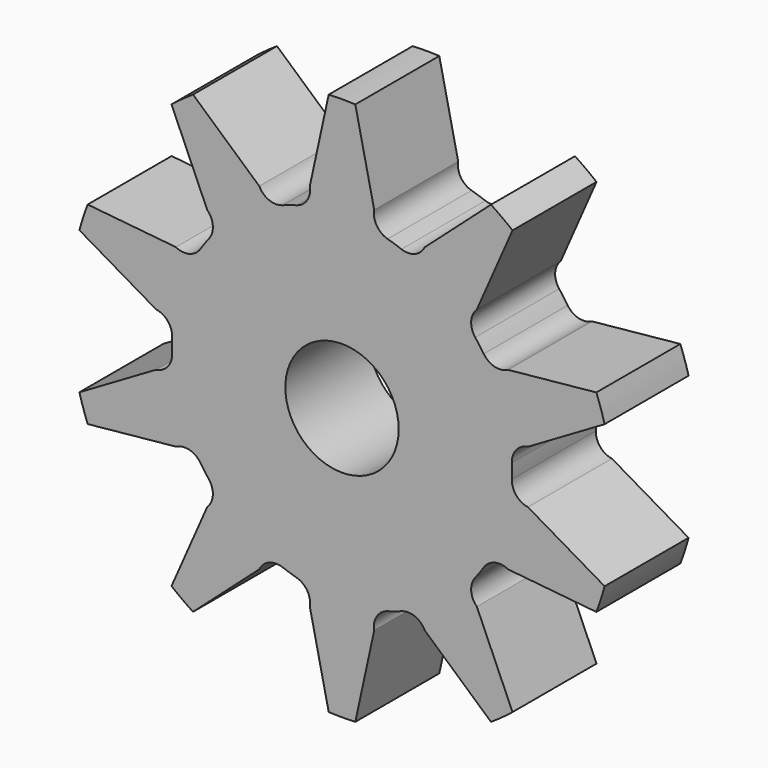
from build123d import *

# Parameters (mm, degrees)
F0_R     = 1.7145
F1_DEPTH = 3.175


with BuildPart() as f1:
    # F0 (on Front) → F1 (new body)
    with BuildSketch(Plane.XZ):
        with BuildLine():
            Line((0.97351, 5.597247), (0.402457, 8.219753))
            ThreePointArc((0.402457, 8.219753), (0, 8.2296), (-0.402457, 8.219753))
            Line((-0.402457, 8.219753), (-0.97351, 5.597247))
            ThreePointArc((-0.97351, 5.597247), (-1.052103, 5.198153), (-1.378445, 4.955349))
            ThreePointArc((-1.378445, 4.955349), (-1.589429, 4.891759), (-1.797496, 4.819191))
            ThreePointArc((-1.797496, 4.819191), (-2.204228, 4.823805), (-2.502393, 5.100483))
            Line((-2.502393, 5.100483), (-4.505855, 6.886478))
            ThreePointArc((-4.505855, 6.886478), (-4.837238, 6.657886), (-5.157044, 6.413362))
            Line((-5.157044, 6.413362), (-4.077565, 3.956053))
            ThreePointArc((-4.077565, 3.956053), (-3.906567, 3.586983), (-4.027866, 3.198732))
            ThreePointArc((-4.027866, 3.198732), (-4.161179, 3.023273), (-4.286854, 2.842266))
            ThreePointArc((-4.286854, 2.842266), (-4.618619, 2.606927), (-5.022467, 2.655508))
            Line((-5.022467, 2.655508), (-7.693084, 2.922803))
            ThreePointArc((-7.693084, 2.922803), (-7.826815, 2.543086), (-7.941816, 2.157284))
            Line((-7.941816, 2.157284), (-5.624129, 0.803781))
            ThreePointArc((-5.624129, 0.803781), (-5.268855, 0.605708), (-5.13878, 0.220308))
            ThreePointArc((-5.13878, 0.220308), (-5.1435, 0), (-5.13878, -0.220308))
            ThreePointArc((-5.13878, -0.220308), (-5.268855, -0.605708), (-5.624129, -0.803781))
            Line((-5.624129, -0.803781), (-7.941816, -2.157284))
            ThreePointArc((-7.941816, -2.157284), (-7.826815, -2.543086), (-7.693084, -2.922803))
            Line((-7.693084, -2.922803), (-5.022467, -2.655508))
            ThreePointArc((-5.022467, -2.655508), (-4.618619, -2.606927), (-4.286854, -2.842266))
            ThreePointArc((-4.286854, -2.842266), (-4.161179, -3.023273), (-4.027866, -3.198732))
            ThreePointArc((-4.027866, -3.198732), (-3.906567, -3.586983), (-4.077565, -3.956053))
            Line((-4.077565, -3.956053), (-5.157044, -6.413362))
            ThreePointArc((-5.157044, -6.413362), (-4.837238, -6.657886), (-4.505855, -6.886478))
            Line((-4.505855, -6.886478), (-2.502393, -5.100483))
            ThreePointArc((-2.502393, -5.100483), (-2.204228, -4.823805), (-1.797496, -4.819191))
            ThreePointArc((-1.797496, -4.819191), (-1.589429, -4.891759), (-1.378445, -4.955349))
            ThreePointArc((-1.378445, -4.955349), (-1.052103, -5.198153), (-0.97351, -5.597247))
            Line((-0.97351, -5.597247), (-0.402457, -8.219753))
            ThreePointArc((-0.402457, -8.219753), (0, -8.2296), (0.402457, -8.219753))
            Line((0.402457, -8.219753), (0.97351, -5.597247))
            ThreePointArc((0.97351, -5.597247), (1.052103, -5.198153), (1.378445, -4.955349))
            ThreePointArc((1.378445, -4.955349), (1.589429, -4.891759), (1.797496, -4.819191))
            ThreePointArc((1.797496, -4.819191), (2.204228, -4.823805), (2.502393, -5.100483))
            Line((2.502393, -5.100483), (4.505855, -6.886478))
            ThreePointArc((4.505855, -6.886478), (4.837238, -6.657886), (5.157044, -6.413362))
            Line((5.157044, -6.413362), (4.077565, -3.956053))
            ThreePointArc((4.077565, -3.956053), (3.906567, -3.586983), (4.027866, -3.198732))
            ThreePointArc((4.027866, -3.198732), (4.161179, -3.023273), (4.286854, -2.842266))
            ThreePointArc((4.286854, -2.842266), (4.618619, -2.606927), (5.022467, -2.655508))
            Line((5.022467, -2.655508), (7.693084, -2.922803))
            ThreePointArc((7.693084, -2.922803), (7.826815, -2.543086), (7.941816, -2.157284))
            Line((7.941816, -2.157284), (5.624129, -0.803781))
            ThreePointArc((5.624129, -0.803781), (5.268855, -0.605708), (5.13878, -0.220308))
            ThreePointArc((5.13878, -0.220308), (5.1435, 0), (5.13878, 0.220308))
            ThreePointArc((5.13878, 0.220308), (5.268855, 0.605708), (5.624129, 0.803781))
            Line((5.624129, 0.803781), (7.941816, 2.157284))
            ThreePointArc((7.941816, 2.157284), (7.826815, 2.543086), (7.693084, 2.922803))
            Line((7.693084, 2.922803), (5.022467, 2.655508))
            ThreePointArc((5.022467, 2.655508), (4.618619, 2.606927), (4.286854, 2.842266))
            ThreePointArc((4.286854, 2.842266), (4.161179, 3.023273), (4.027866, 3.198732))
            ThreePointArc((4.027866, 3.198732), (3.906567, 3.586983), (4.077565, 3.956053))
            Line((4.077565, 3.956053), (5.157044, 6.413362))
            ThreePointArc((5.157044, 6.413362), (4.837238, 6.657886), (4.505855, 6.886478))
            Line((4.505855, 6.886478), (2.502393, 5.100483))
            ThreePointArc((2.502393, 5.100483), (2.204228, 4.823805), (1.797496, 4.819191))
            ThreePointArc((1.797496, 4.819191), (1.589429, 4.891759), (1.378445, 4.955349))
            ThreePointArc((1.378445, 4.955349), (1.052103, 5.198153), (0.97351, 5.597247))
        make_face()
        Circle(F0_R, mode=Mode.SUBTRACT)
    extrude(amount=F1_DEPTH)


solid = f1.part
